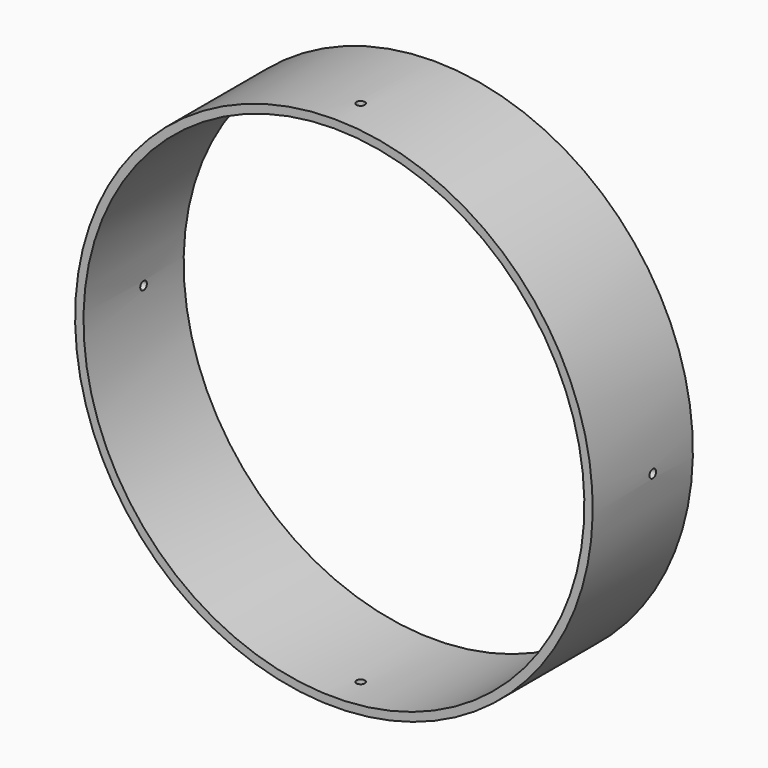
from build123d import *

# Parameters (mm, degrees)
F0_W          = 15
F0_H          = 1
F2_R          = 0.5
F3_DEPTH      = 31.001
F3_DEPTH_BACK = 31.001
F4_R          = 0.5
F5_DEPTH      = 31.0010001
F5_DEPTH_BACK = 31.0010001


with BuildPart() as f1:
    # F0 (on Right) → F1 (revolve)
    with BuildSketch(Plane.YZ):
        with Locations((-1.5, 30.5)):
            Rectangle(F0_W, F0_H)
    revolve(axis=Axis((0, 3, 0), (0, -1, 0)))

    # F2 (on Right) → F3 (cut, two sides)
    with BuildSketch(Plane.YZ) as f3_sk:
        Circle(F2_R)
    extrude(amount=-F3_DEPTH, mode=Mode.SUBTRACT)
    extrude(f3_sk.sketch, amount=F3_DEPTH_BACK, mode=Mode.SUBTRACT)

    # F4 (on Top) → F5 (cut, two sides)
    with BuildSketch(Plane.XY) as f5_sk:
        with Locations((0, -5)):
            Circle(F4_R)
    extrude(amount=-F5_DEPTH, mode=Mode.SUBTRACT)
    extrude(f5_sk.sketch, amount=F5_DEPTH_BACK, mode=Mode.SUBTRACT)


solid = f1.part
